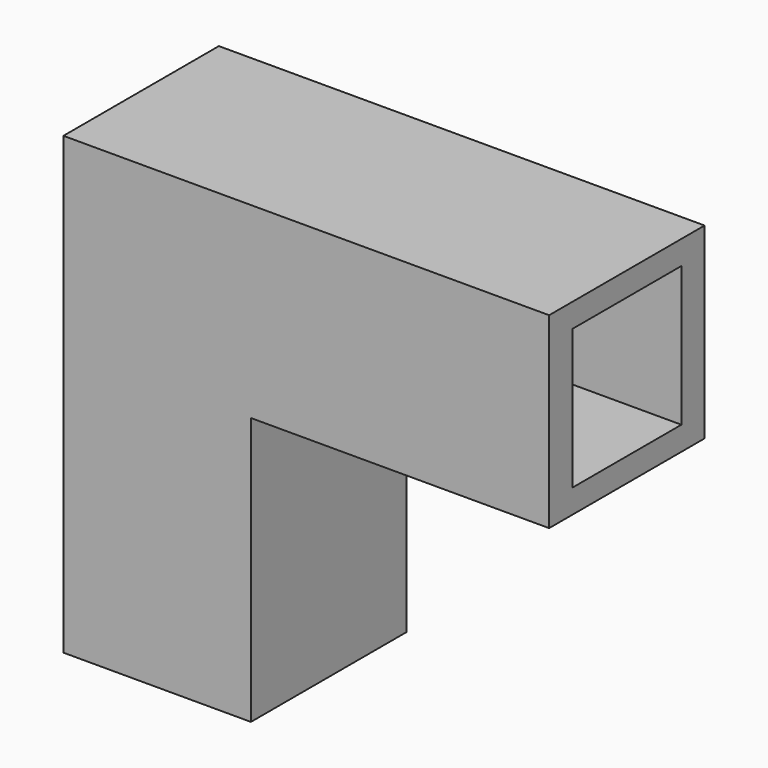
from build123d import *

# Parameters (mm, degrees)
F1_W   = 20.855685696
F1_H   = 21.614074707
F1_W_2 = 15.5469644815
F1_H_2 = 15.1677737013


with BuildPart() as f2:
    # F2: sweep along a path in F0
    with BuildLine(Plane.XZ) as f2_path:
        Line((0, 0), (0, 40.1945970953))
        Line((0, 40.1945970953), (43.6073467135, 40.1945970953))
    # F1 (on Top) → F2 (sweep)
    with BuildSketch(Plane.XY):
        Rectangle(F1_W, F1_H)
        Rectangle(F1_W_2, F1_H_2, mode=Mode.SUBTRACT)
    sweep(path=f2_path.line, transition=Transition.RIGHT)


solid = f2.part
